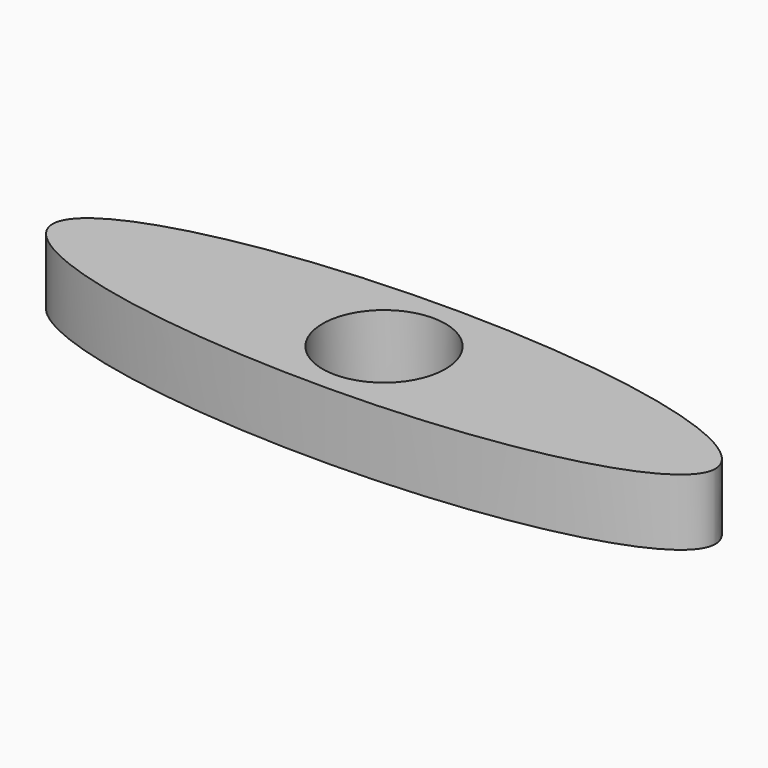
from build123d import *

# Parameters (mm, degrees)
F1_DEPTH = 20
F3_DEPTH = 20
F4_R     = 18.534867
F5_DEPTH = 20


with BuildPart() as f1:
    # F0 (on Top) → F1 (new body)
    with BuildSketch(Plane.XY):
        with BuildLine():
            add(Edge.make_bspline(
                [(100, 0), (100, 43.30127), (-50, 21.650635), (-200, 0), (-50, -21.650635), (100, -43.30127), (100, 0)],
                knots=[0, 0, 0, 2.094395, 2.094395, 4.18879, 4.18879, 6.283185, 6.283185, 6.283185], degree=2, weights=[1, 0.5, 1, 0.5, 1, 0.5, 1]))
        make_face()
    extrude(amount=F1_DEPTH)


with BuildPart() as f3:
    # F2 (on Top) → F3 (new body)
    with BuildSketch(Plane.XY):
        with BuildLine():
            add(Edge.make_bspline(
                [(100, 0), (100, 43.30127), (-50, 21.650635), (-200, 0), (-50, -21.650635), (100, -43.30127), (100, 0)],
                knots=[0, 0, 0, 2.094395, 2.094395, 4.18879, 4.18879, 6.283185, 6.283185, 6.283185], degree=2, weights=[1, 0.5, 1, 0.5, 1, 0.5, 1]))
        make_face()
    extrude(amount=F3_DEPTH)


with BuildPart() as f5_tool:
    # F4 (on face) → F5 (new body)
    with BuildSketch(Plane.XY.offset(20)):
        Circle(F4_R)
    extrude(amount=-F5_DEPTH)


with BuildPart() as f1_1:
    add(f1.part)

    # F5: cut by f5_tool
    add(f5_tool.part, mode=Mode.SUBTRACT)


with BuildPart() as f3_1:
    add(f3.part)

    # F5: cut by f5_tool
    add(f5_tool.part, mode=Mode.SUBTRACT)


solid = Compound([f1_1.part, f3_1.part])
